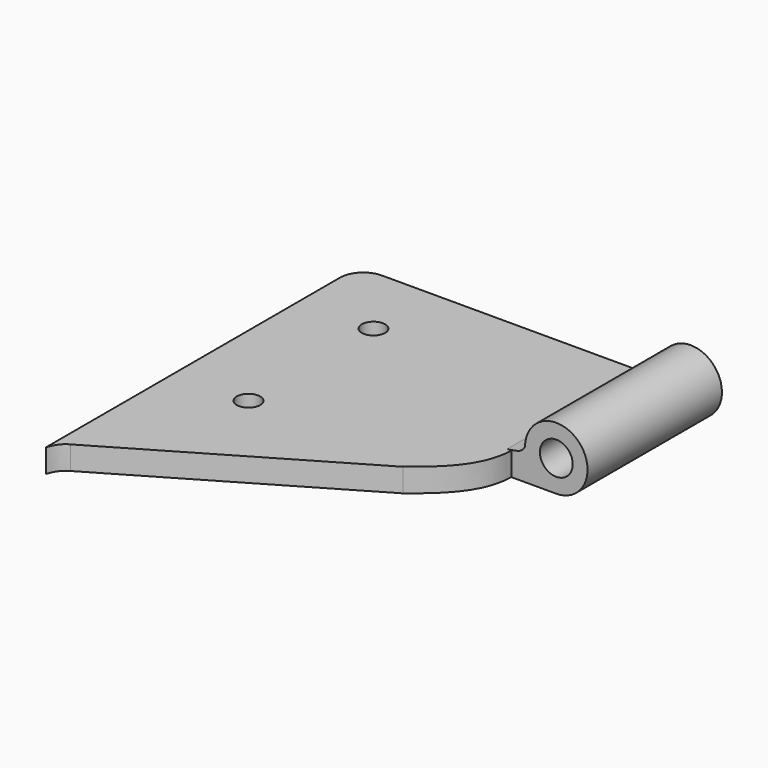
from build123d import *

# Parameters (mm, degrees)
F1_DEPTH = 3
F2_R     = 2.1
F3_DEPTH = 21.5
F4_R     = 3
F5_R     = 1.5
F6_DEPTH = 3


with BuildPart() as f1:
    # F0 (on Top) → F1 (new body)
    with BuildSketch(Plane.XY):
        with BuildLine():
            add(Edge.make_bspline(
                [(-17.7381685377, 25.758469689), (-18.6029082943, 25.3198112197), (-19.0115179867, 24.4438797075), (-19.25, 23.7522523094)],
                knots=[0, 0, 0, 0, 2.5120793269, 2.5120793269, 2.5120793269, 2.5120793269], degree=3))
            Line((-17.7381685377, 25.758469689), (11.2471123299, 42.7481702213))
            add(Edge.make_bspline(
                [(11.2471123299, 42.7481702213), (13.6908411554, 44.7339186325), (17.38480106, 47.4555082619), (17.5, 52.2522523094)],
                knots=[0, 0, 0, 0, 11.376562774, 11.376562774, 11.376562774, 11.376562774], degree=3))
            Line((17.5, 52.2522523094), (19.25, 52.2522523094))
            Line((19.25, 52.2522523094), (19.25, 73.7522523094))
            Line((19.25, 73.7522523094), (-19.25, 73.7522523094))
            Line((-19.25, 73.7522523094), (-19.25, 23.7522523094))
        make_face()
    extrude(amount=F1_DEPTH)

    # F2 (on face) → F3 (join)
    with BuildSketch(Plane(origin=(0, 73.7522523094, 0), x_dir=(-1, 0, 0), z_dir=(0, 1, 0))):
        with BuildLine():
            ThreePointArc((-23.25, 0), (-20.4215728753, 1.1715728753), (-19.25, 4))
            ThreePointArc((-19.25, 4), (-26.0784271247, 6.8284271247), (-23.25, 0))
        make_face()
        with Locations((-23.25, 4)):
            Circle(F2_R, mode=Mode.SUBTRACT)
        with BuildLine():
            Line((-23.25, 0), (-19.25, 0))
            Line((-19.25, 0), (-19.25, 3))
            Line((-19.25, 3), (-16.9664081186, 3))
            add(Edge.make_bspline(
                [(-19.25, 4), (-18.8806392252, 3.1797552947), (-18.1370340288, 3.1503054779), (-16.9664081186, 3)],
                knots=[0, 0, 0, 0, 2.4929484312, 2.4929484312, 2.4929484312, 2.4929484312], degree=3))
            ThreePointArc((-19.25, 4), (-20.4215728753, 1.1715728753), (-23.25, 0))
        make_face()
    extrude(amount=-F3_DEPTH)

    # F4
    f4_edges = [f1.edges().sort_by_distance(p)[0] for p in [
        (-19.25, 73.752252, 1.5),
    ]]
    fillet(f4_edges, radius=F4_R)

    # F5 (on face) → F6 (cut)
    with BuildSketch(Plane(origin=(0, 0, 0), x_dir=(1, 0, 0), z_dir=(0, 0, -1))):
        with Locations((-9.75, -64.2522523094)):
            Circle(F5_R)
        with Locations((-9.75, -44.2522523094)):
            Circle(F5_R)
    extrude(amount=-F6_DEPTH, mode=Mode.SUBTRACT)


solid = f1.part
